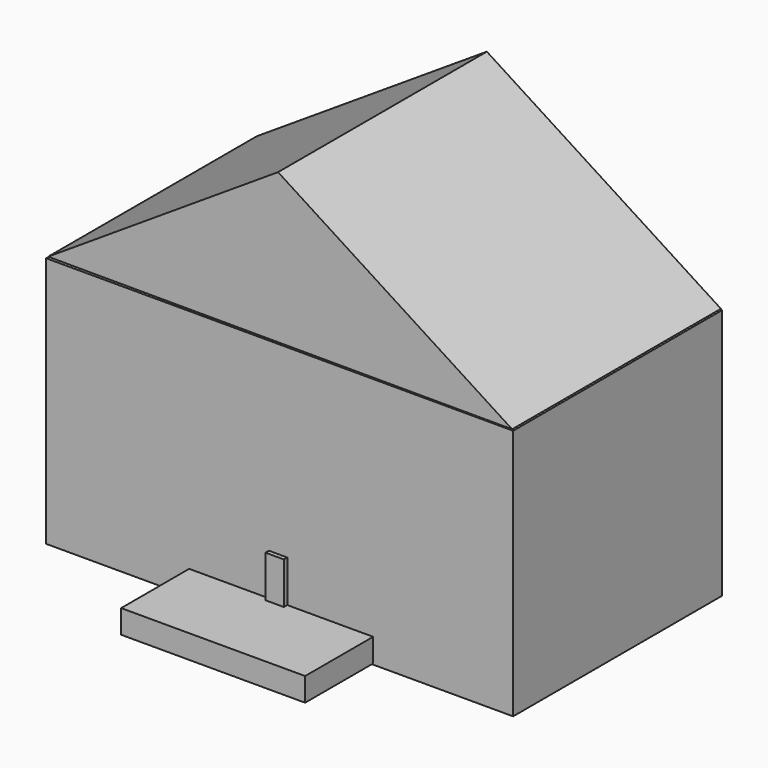
from build123d import *

# Parameters (mm, degrees)
F0_W     = 139.559426
F0_H     = 75.123895
F1_DEPTH = 77.978
F3_DEPTH = 77.978
F5_W     = 54.968702
F5_H     = 7.023781
F6_DEPTH = 25.4
F7_W     = 5.496873
F7_H     = 13.131412
F8_DEPTH = 1.27


with BuildPart() as f1:
    # F0 (on Front) → F1 (new body)
    with BuildSketch(Plane.XZ):
        with Locations((0.458073, -7.32916)):
            Rectangle(F0_W, F0_H)
        with Locations((0.458073, -7.32916)):
            Rectangle(F0_W, F0_H)
    extrude(amount=-F1_DEPTH)

    # F5 (on face) → F6 (join)
    with BuildSketch(Plane.XZ):
        with Locations((0.916145, -41.073836)):
            Rectangle(F5_W, F5_H)
    extrude(amount=F6_DEPTH)

    # F7 (on face) → F8 (join)
    with BuildSketch(Plane.XZ):
        with Locations((1e-06, -31.607005)):
            Rectangle(F7_W, F7_H)
    extrude(amount=F8_DEPTH)


with BuildPart() as f3:
    # F2 (on Front) → F3 (new body)
    with BuildSketch(Plane.XZ):
        Polygon((0, 75.429276), (-68.710878, 30.843548), (69.932409, 30.538168), align=None)
    extrude(amount=-F3_DEPTH)


solid = Compound([f1.part, f3.part])
